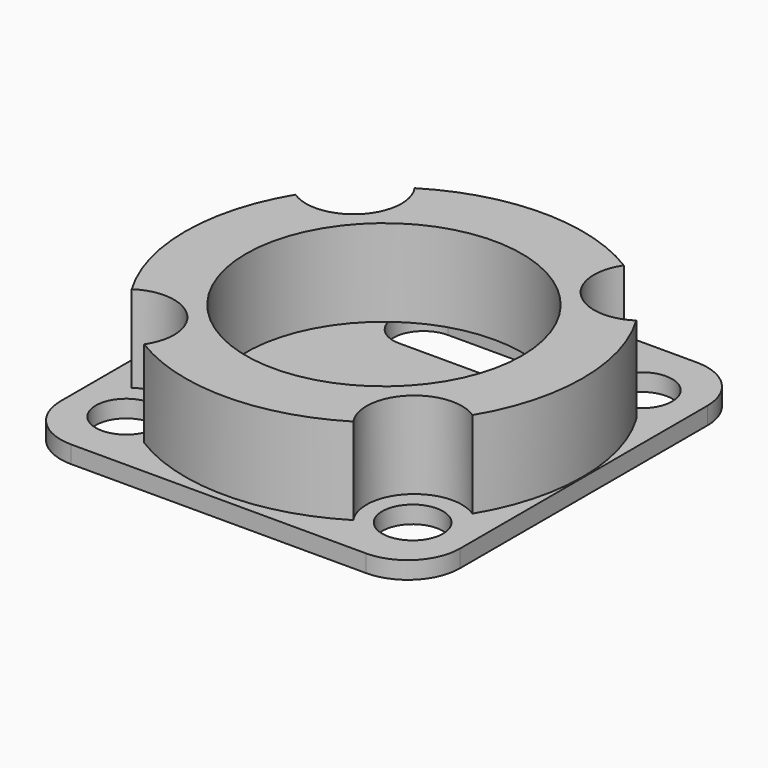
from build123d import *

# Parameters (mm, degrees)
SKETCH_W        = 23
SKETCH_H        = 23.82
PAD_DEPTH       = 6
FILLET_R        = 3
POCKET_DEPTH    = 1
SKETCH001_W     = 40
SKETCH001_H     = 40
SKETCH001_R     = 11.45
POCKET001_DEPTH = 5
SKETCH004_R     = 7.95
POCKET002_DEPTH = 5
SKETCH006_R     = 1.75
HOLE_DEPTH      = 6.001
SKETCH007_R     = 2.75
POCKET004_DEPTH = 5
SKETCH008_R     = 1.5
HOLE001_DEPTH   = 25


with BuildPart() as part:
    # Sketch → Pad (new body)
    with BuildSketch(Plane.XY):
        Rectangle(SKETCH_W, SKETCH_H)
    extrude(amount=PAD_DEPTH)

    # Fillet
    fillet_edges = [part.edges().sort_by_distance(p)[0] for p in [
        (11.5, -11.91, 3),
        (-11.5, -11.91, 3),
        (11.5, 11.91, 3),
        (-11.5, 11.91, 3),
    ]]
    fillet(fillet_edges, radius=FILLET_R)

    # Sketch003 → Pocket (cut)
    with BuildSketch(Plane(origin=(0, 0, 0), x_dir=(1, 0, 0), z_dir=(0, 0, -1))):
        with BuildLine():
            ThreePointArc((4, -8.5), (5.75, -6.75), (4, -5))
            Line((4, -5), (-3.12, -5))
            ThreePointArc((-3.12, -5), (-4.87, -6.75), (-3.12, -8.5))
            Line((4, -8.5), (-3.12, -8.5))
        make_face()
        with BuildLine():
            ThreePointArc((2.38, 5.01), (4.13, 6.76), (2.38, 8.51))
            Line((2.38, 8.51), (-2.34, 8.51))
            ThreePointArc((-2.34, 8.51), (-4.09, 6.76), (-2.34, 5.01))
            Line((2.38, 5.01), (-2.34, 5.01))
        make_face()
    extrude(amount=-POCKET_DEPTH, mode=Mode.SUBTRACT)

    # Sketch001 (on Face6 of Pad) → Pocket001 (cut)
    with BuildSketch(Plane.XY.offset(6)):
        Rectangle(SKETCH001_W, SKETCH001_H)
        Circle(SKETCH001_R, mode=Mode.SUBTRACT)
    extrude(amount=-POCKET001_DEPTH, mode=Mode.SUBTRACT)

    # Sketch004 (on Face21 of Pocket001) → Pocket002 (cut)
    with BuildSketch(Plane(origin=(0, 0, 1), x_dir=(1, 0, 0), z_dir=(0, 0, -1))):
        with Locations((-0.007428, -0.004957)):
            Circle(SKETCH004_R)
    extrude(amount=-POCKET002_DEPTH, mode=Mode.SUBTRACT)

    # Sketch006 → Hole (cut, through all)
    with BuildSketch(Plane.XY.offset(6)):
        with Locations((-8.25, 8.25)):
            Circle(SKETCH006_R)
        with Locations((8.25, 8.25)):
            Circle(SKETCH006_R)
        with Locations((8.25, -8.25)):
            Circle(SKETCH006_R)
        with Locations((-8.25, -8.25)):
            Circle(SKETCH006_R)
    extrude(amount=-HOLE_DEPTH, mode=Mode.SUBTRACT)

    # Sketch007 → Pocket004 (cut)
    with BuildSketch(Plane.XY.offset(6)):
        with Locations((-8.293696, 8.188751)):
            Circle(SKETCH007_R)
        with Locations((8.293696, 8.188751)):
            Circle(SKETCH007_R)
        with Locations((8.293696, -8.188751)):
            Circle(SKETCH007_R)
        with Locations((-8.293696, -8.188751)):
            Circle(SKETCH007_R)
    extrude(amount=-POCKET004_DEPTH, mode=Mode.SUBTRACT)

    # Sketch008 (on Face6 of Pad) → Hole001 (cut)
    with BuildSketch(Plane.XY.offset(6)):
        Circle(SKETCH008_R)
    extrude(amount=-HOLE001_DEPTH, mode=Mode.SUBTRACT)


solid = part.part
